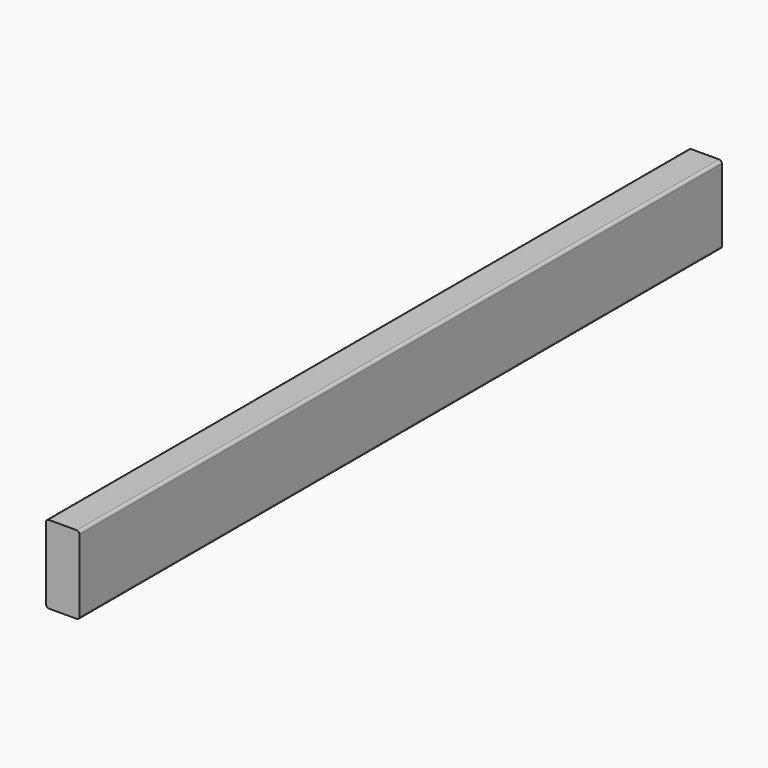
from build123d import *

# Parameters (mm, degrees)
F1_DEPTH = 457.2


with BuildPart() as f1:
    # F0 (on Front) → F1 (new body, symmetric)
    with BuildSketch(Plane.XZ):
        with BuildLine():
            Line((-15.875, -44.45), (15.875, -44.45))
            ThreePointArc((15.875, -44.45), (18.120064, -43.520064), (19.05, -41.275))
            Line((19.05, -41.275), (19.05, 41.275))
            ThreePointArc((19.05, 41.275), (18.120064, 43.520064), (15.875, 44.45))
            Line((15.875, 44.45), (-15.875, 44.45))
            ThreePointArc((-15.875, 44.45), (-18.120064, 43.520064), (-19.05, 41.275))
            Line((-19.05, 41.275), (-19.05, -41.275))
            ThreePointArc((-19.05, -41.275), (-18.120064, -43.520064), (-15.875, -44.45))
        make_face()
    extrude(amount=F1_DEPTH, both=True)


solid = f1.part
